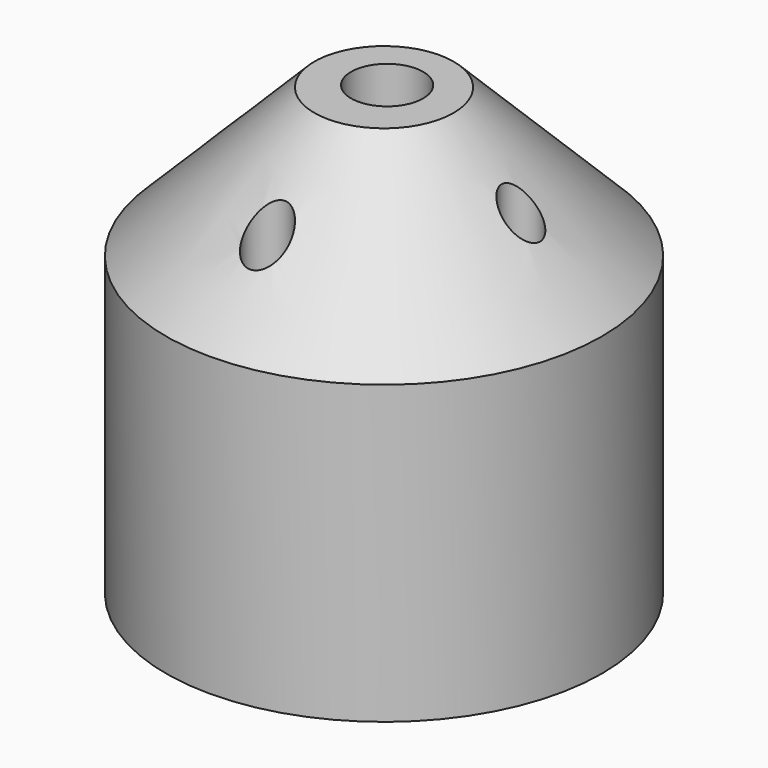
from build123d import *

# Parameters (mm, degrees)
F0_R     = 7.344689
F1_DEPTH = 15
F2_SIZE  = 5
F3_R     = 0.805214
F3_R_2   = 0.724696
F3_R_3   = 0.64417
F3_R_4   = 0.586207
F4_DEPTH = 25
F5_R     = 1.214251
F6_DEPTH = 25


with BuildPart() as f1:
    # F0 (on Top) → F1 (new body)
    with BuildSketch(Plane.XY):
        with Locations((-43.481596, 43.64264)):
            Circle(F0_R)
    extrude(amount=F1_DEPTH)

    # F2
    f2_edges = [f1.edges().sort_by_distance(p)[0] for p in [
        (-50.826285, 43.64264, 15),
    ]]
    chamfer(f2_edges, length=F2_SIZE)

    # F3 (on Top) → F4 (cut)
    with BuildSketch(Plane.XY):
        with Locations((-43.562695, 48.90348)):
            Circle(F3_R)
        with Locations((-43.562695, 38.838297)):
            Circle(F3_R_2)
        with Locations((-38.892448, 43.669585)):
            Circle(F3_R_3)
        with Locations((-48.555028, 43.669585)):
            Circle(F3_R_4)
    extrude(amount=F4_DEPTH, mode=Mode.SUBTRACT)

    # F5 (on Top) → F6 (cut)
    with BuildSketch(Plane.XY):
        with Locations((-43.492485, 43.788202)):
            Circle(F5_R)
    extrude(amount=F6_DEPTH, mode=Mode.SUBTRACT)


solid = f1.part
